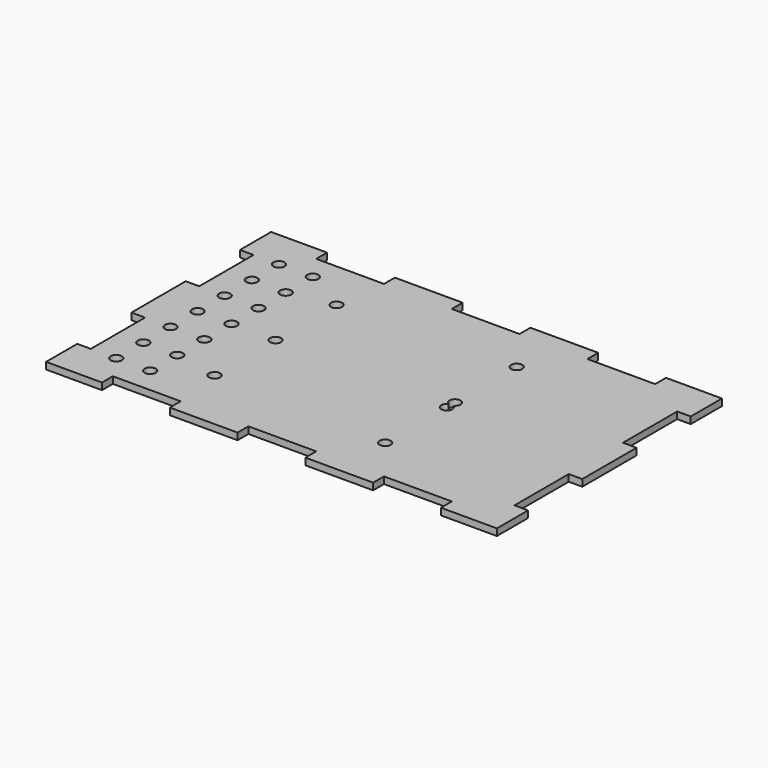
from build123d import *

# Parameters (mm, degrees)
SKETCH002_W   = 266
SKETCH002_H   = 166
PAD001_DEPTH  = 4
SKETCH015_W   = 40
SKETCH015_H   = 30
SKETCH015_W_2 = 30
SKETCH015_H_2 = 40
POCKET_DEPTH  = 631.146916
SKETCH034_R   = 3.3
HOLE_DEPTH    = 4.001


with BuildPart() as part:
    # Sketch002 (on DatumPlane) → Pad001 (new body)
    with BuildSketch(Plane(origin=(0, 0, -4), x_dir=(-1, 0, 0), z_dir=(0, 0, 1))):
        Rectangle(SKETCH002_W, SKETCH002_H)
    extrude(amount=-PAD001_DEPTH)

    # Sketch015 (on Face6 of Pad001) → Pocket (cut, through all)
    with BuildSketch(Plane(origin=(0, 0, -8), x_dir=(-1, 0, 0), z_dir=(0, 0, -1))):
        with Locations((-80, 90)):
            Rectangle(SKETCH015_W, SKETCH015_H)
        with Locations((0, 90)):
            Rectangle(SKETCH015_W, SKETCH015_H)
        with Locations((80, 90)):
            Rectangle(SKETCH015_W, SKETCH015_H)
        with Locations((-140, 40)):
            Rectangle(SKETCH015_W_2, SKETCH015_H_2)
        with Locations((-140, -40)):
            Rectangle(SKETCH015_W_2, SKETCH015_H_2)
    pocket = extrude(amount=-POCKET_DEPTH, mode=Mode.SUBTRACT)

    # Mirrored: Pocket across Sketch015 V_Axis
    add(pocket.mirror(Plane(origin=(0, 0, -8), x_dir=(0, 0, -1), z_dir=(-1, 0, 0))), mode=Mode.SUBTRACT)

    # Mirrored001: Pocket across Sketch015 H_Axis
    add(pocket.mirror(Plane(origin=(0, 0, -8), x_dir=(0, 0, -1), z_dir=(0, 1, 0))), mode=Mode.SUBTRACT)

    # Sketch034 (on Face2 of Mirrored001) → Hole (cut, through all)
    with BuildSketch(Plane(origin=(0, 0, -4), x_dir=(-1, 0, 0), z_dir=(0, 0, 1))):
        with Locations((-39.5, 48.5)):
            Circle(SKETCH034_R)
        with Locations((64, 45)):
            Circle(SKETCH034_R)
        with Locations((64, 0)):
            Circle(SKETCH034_R)
        with Locations((-39.5, 3)):
            Circle(SKETCH034_R)
        with Locations((-39.5, -3)):
            Circle(SKETCH034_R)
        with Locations((-39.5, -48.5)):
            Circle(SKETCH034_R)
        with Locations((64, -45)):
            Circle(SKETCH034_R)
        with Locations((110, 60)):
            Circle(SKETCH034_R)
        with Locations((90, 60)):
            Circle(SKETCH034_R)
        with Locations((110, 40)):
            Circle(SKETCH034_R)
        with Locations((90, 40)):
            Circle(SKETCH034_R)
        with Locations((110, 20)):
            Circle(SKETCH034_R)
        with Locations((90, 20)):
            Circle(SKETCH034_R)
        with Locations((110, 0)):
            Circle(SKETCH034_R)
        with Locations((90, 0)):
            Circle(SKETCH034_R)
        with Locations((110, -20)):
            Circle(SKETCH034_R)
        with Locations((90, -20)):
            Circle(SKETCH034_R)
        with Locations((110, -40)):
            Circle(SKETCH034_R)
        with Locations((90, -40)):
            Circle(SKETCH034_R)
        with Locations((110, -60)):
            Circle(SKETCH034_R)
        with Locations((90, -60)):
            Circle(SKETCH034_R)
    extrude(amount=-HOLE_DEPTH, mode=Mode.SUBTRACT)


solid = part.part
